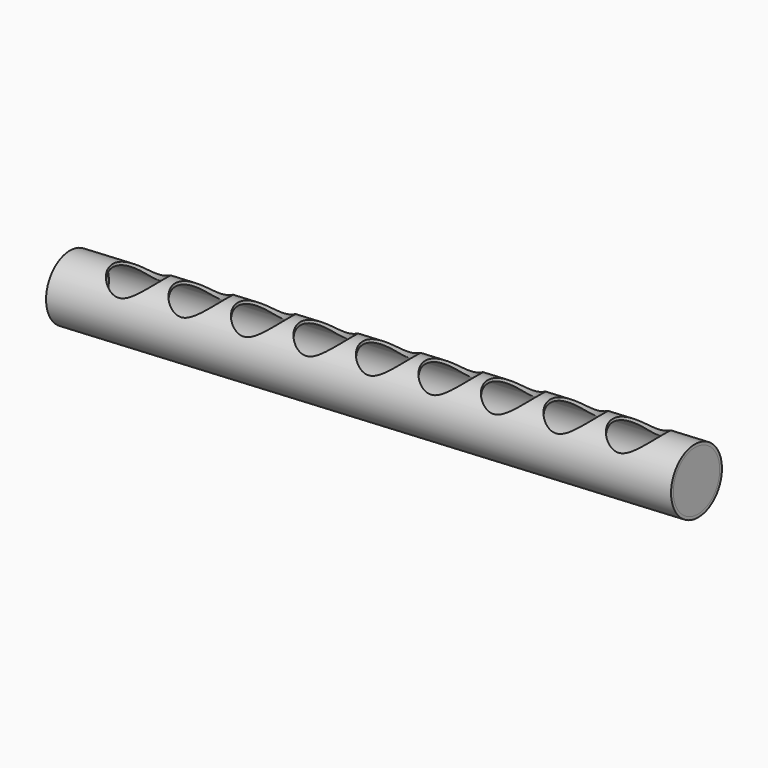
from build123d import *

# Parameters (mm, degrees)
F0_R      = 55.8000002513
F0_R_2    = 50.8
F1_DEPTH  = 1100
F3_R      = 44.45
F4_DEPTH  = 55.8010002513
F5_ANGLE  = -3
F6_R      = 54.3278323754
F7_DEPTH  = 25
F8_R      = 53.7932679921
F9_DEPTH  = 25
F10_R     = 6.35
F11_DEPTH = 113.2940802575


with BuildPart() as f1:
    # F0 (on Right) → F1 (new body)
    with BuildSketch(Plane.YZ):
        Circle(F0_R)
        Circle(F0_R_2, mode=Mode.SUBTRACT)
    extrude(amount=-F1_DEPTH)

    # F3 (on Top) → F4 (cut, through all)
    with BuildSketch(Plane.XY):
        with Locations((-100, 0)):
            Circle(F3_R)
        with Locations((-210, 0)):
            Circle(F3_R)
        with Locations((-320, 0)):
            Circle(F3_R)
        with Locations((-430, 0)):
            Circle(F3_R)
        with Locations((-540, 0)):
            Circle(F3_R)
        with Locations((-650, 0)):
            Circle(F3_R)
        with Locations((-760, 0)):
            Circle(F3_R)
        with Locations((-870, 0)):
            Circle(F3_R)
        with Locations((-980, 0)):
            Circle(F3_R)
    extrude(amount=F4_DEPTH, mode=Mode.SUBTRACT)


with BuildPart() as f1_1:
    # F5: moved
    add(f1.part.rotate(Axis((0, -0.1610405743, 0), (0, 1, 0)), F5_ANGLE))

    # F6 (on face) → F7 (join)
    with BuildSketch(Plane(origin=(-1098.49248823, 0, -57.5695518672), x_dir=(0, -1, 0), z_dir=(-0.9986295348, 0, -0.0523359562))):
        Circle(F6_R)
    extrude(amount=-F7_DEPTH)

    # F8 (on face) → F9 (join)
    with BuildSketch(Plane(origin=(0, 0, 0), x_dir=(0, 1, 0), z_dir=(0.9986295348, 0, 0.0523359562))):
        Circle(F8_R)
    extrude(amount=-F9_DEPTH)

    # F10 (on Top) → F11 (cut, through all)
    with BuildSketch(Plane.XY):
        with Locations((-980.474114418, 0)):
            Circle(F10_R)
    extrude(amount=-F11_DEPTH, mode=Mode.SUBTRACT)


solid = f1_1.part
